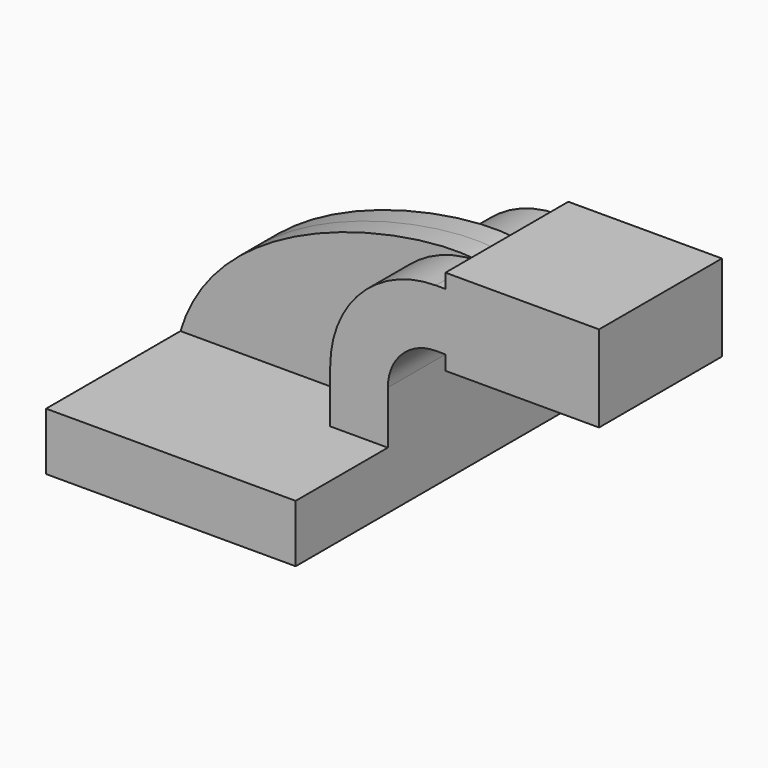
from build123d import *

# Parameters (mm, degrees)
F1_DEPTH = 63.5
F2_DEPTH = 25.4
F3_DEPTH = 7.9375


with BuildPart() as f1:
    # F0 (on Front) → F1 (new body, symmetric)
    with BuildSketch(Plane.XZ):
        Polygon((-41.275, -9.525), (41.275, -9.525), (41.275, 9.525), (22.225, 9.525), (-41.275, 9.525), align=None)
    extrude(amount=F1_DEPTH, both=True)

    # F0 (on Front) → F2 (join, symmetric)
    with BuildSketch(Plane.XZ):
        with BuildLine():
            Line((22.225, 9.525), (41.275, 9.525))
            Line((41.275, 9.525), (41.275, 27.0002))
            ThreePointArc((41.275, 27.0002), (45.92468, 38.22552), (57.15, 42.8752))
            Line((57.15, 42.8752), (60.325, 42.8752))
            Line((60.325, 42.8752), (60.325, 61.9252))
            Line((60.325, 61.9252), (57.15, 61.9252))
            ThreePointArc((57.15, 61.9252), (32.454296, 51.695904), (22.225, 27.0002))
            Line((22.225, 27.0002), (22.225, 9.525))
        make_face()
        Polygon((91.891411, 61.9252), (60.325, 61.9252), (60.325, 42.8752), (74.520705, 42.8752), (91.891411, 42.8752), align=None)
        Polygon((60.325, 66.675), (60.325, 61.9252), (91.891411, 61.9252), (91.891411, 42.8752), (74.520705, 42.8752), (60.325, 42.8752), (60.325, 38.1), (111.125, 38.1), (111.125, 66.675), align=None)
    extrude(amount=F2_DEPTH, both=True)

    # F0 (on Front) → F3 (join, symmetric)
    with BuildSketch(Plane.XZ):
        with BuildLine():
            add(Edge.make_bspline(
                [(-41.275, 9.525), (-28.410731, 53.163726), (38.786519, 65.535851), (57.15, 61.9252)],
                knots=[0, 0, 0, 0, 111.504536, 111.504536, 111.504536, 111.504536], degree=3))
            Line((-41.275, 9.525), (22.225, 9.525))
            Line((22.225, 9.525), (22.225, 27.0002))
            ThreePointArc((22.225, 27.0002), (32.454296, 51.695904), (57.15, 61.9252))
        make_face()
    extrude(amount=F3_DEPTH, both=True)


solid = f1.part
